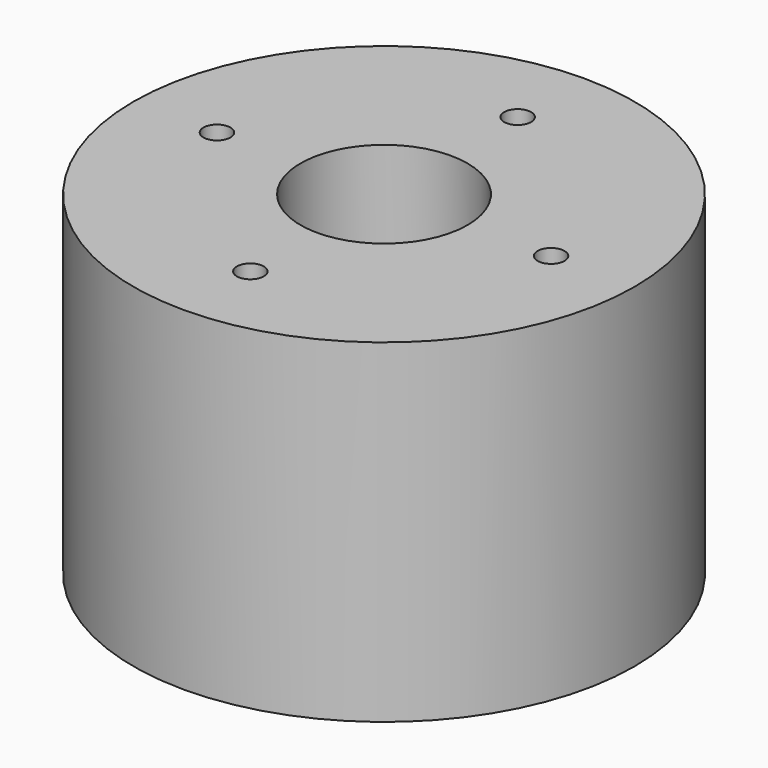
from build123d import *

# Parameters (mm, degrees)
F0_R     = 38.1
F1_DEPTH = 50.8
F2_R     = 12.7
F3_DEPTH = 25.4
F5_D     = 4.1


with BuildPart() as f1:
    # F0 (on Top) → F1 (new body)
    with BuildSketch(Plane.XY):
        Circle(F0_R)
    extrude(amount=F1_DEPTH)

    # F2 (on face) → F3 (cut)
    with BuildSketch(Plane.XY.offset(50.8)):
        Circle(F2_R)
    extrude(amount=-F3_DEPTH, mode=Mode.SUBTRACT)

    # F5 (through all)
    with Locations(Plane.XY.offset(50.8)):
        with Locations((25.4, 0), (0, 25.4), (-25.4, 0), (0, -25.4)):
            Hole(F5_D / 2)


solid = f1.part
